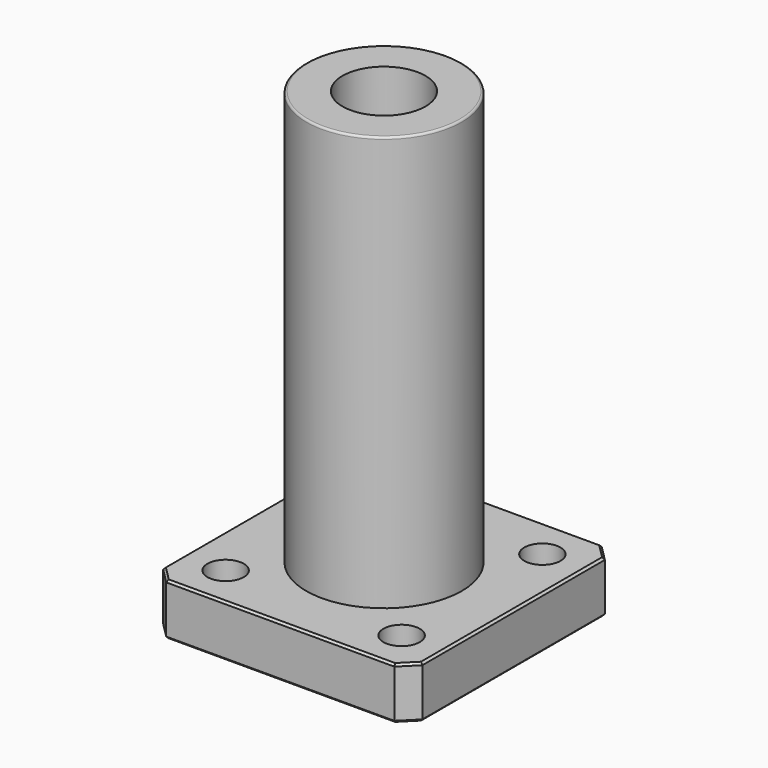
from build123d import *

# Parameters (mm, degrees)
SKETCH_W              = 25
SKETCH_H              = 25
PAD_DEPTH             = 5
SKETCH001_R           = 7.5
PAD001_DEPTH          = 40
SKETCH004_R           = 4
POCKET_DEPTH          = 45.001
SKETCH005_R           = 3
POCKET001_DEPTH       = 3.1
POLARPATTERN_COUNT    = 4
SKETCH006_R           = 1.75
POCKET002_DEPTH       = 156.356231
POLARPATTERN001_COUNT = 4
CHAMFER_SIZE          = 1.5
CHAMFER001_SIZE       = 0.2
FILLET_R              = 0.2


with BuildPart() as part:
    # Sketch → Pad (new body)
    with BuildSketch(Plane.XY):
        Rectangle(SKETCH_W, SKETCH_H)
    extrude(amount=PAD_DEPTH)

    # Sketch001 (on Face6 of Pad) → Pad001 (join)
    with BuildSketch(Plane.XY.offset(5)):
        Circle(SKETCH001_R)
    extrude(amount=PAD001_DEPTH)

    # Sketch004 (on Face4 of Pad001) → Pocket (cut, through all)
    with BuildSketch(Plane(origin=(0, 0, 0), x_dir=(1, 0, 0), z_dir=(0, 0, -1))):
        Circle(SKETCH004_R)
    extrude(amount=-POCKET_DEPTH, mode=Mode.SUBTRACT)

    # Sketch005 (on Face4 of Pocket) → Pocket001 (cut)
    with BuildSketch(Plane(origin=(0, 0, 0), x_dir=(1, 0, 0), z_dir=(0, 0, -1))):
        with Locations((-8.485281, 8.485281)):
            Circle(SKETCH005_R)
    pocket001 = extrude(amount=-POCKET001_DEPTH, mode=Mode.SUBTRACT)

    # PolarPattern: Pocket001 ×4 about axis
    polarpattern_axis = Axis((0, 0, 0), (0, 0, -1))
    for i in range(1, POLARPATTERN_COUNT):
        add(pocket001.rotate(polarpattern_axis, i * 360 / POLARPATTERN_COUNT), mode=Mode.SUBTRACT)

    # Sketch006 (on Face16 of PolarPattern) → Pocket002 (cut, through all)
    with BuildSketch(Plane(origin=(0, 0, 3.1), x_dir=(1, 0, 0), z_dir=(0, 0, -1))):
        with Locations((-8.485281, 8.485281)):
            Circle(SKETCH006_R)
    pocket002 = extrude(amount=-POCKET002_DEPTH, mode=Mode.SUBTRACT)

    # PolarPattern001: Pocket002 ×4 about axis
    polarpattern001_axis = Axis((0, 0, 3.1), (0, 0, -1))
    for i in range(1, POLARPATTERN001_COUNT):
        add(pocket002.rotate(polarpattern001_axis, i * 360 / POLARPATTERN001_COUNT), mode=Mode.SUBTRACT)

    # Chamfer
    chamfer_edges = [part.edges().sort_by_distance(p)[0] for p in [
        (-12.5, 12.5, 2.5),
        (-12.5, -12.5, 2.5),
        (12.5, -12.5, 2.5),
        (12.5, 12.5, 2.5),
    ]]
    chamfer(chamfer_edges, length=CHAMFER_SIZE)

    # Chamfer001
    chamfer001_edges = [part.edges().sort_by_distance(p)[0] for p in [
        (-11.75, 11.75, 0),
        (0, 12.5, 0),
        (11.75, 11.75, 0),
        (12.5, 0, 0),
        (11.75, -11.75, 0),
        (0, -12.5, 0),
        (-11.75, -11.75, 0),
        (-12.5, 0, 0),
        (-11.75, 11.75, 5),
        (0, 12.5, 5),
        (11.75, 11.75, 5),
        (12.5, 0, 5),
        (0, -12.5, 5),
        (-11.75, -11.75, 5),
        (-12.5, 0, 5),
        (11.75, -11.75, 5),
    ]]
    chamfer(chamfer001_edges, length=CHAMFER001_SIZE)

    # Fillet
    fillet_edges = [part.edges().sort_by_distance(p)[0] for p in [
        (-7.5, 0, 45),
    ]]
    fillet(fillet_edges, radius=FILLET_R)


solid = part.part
